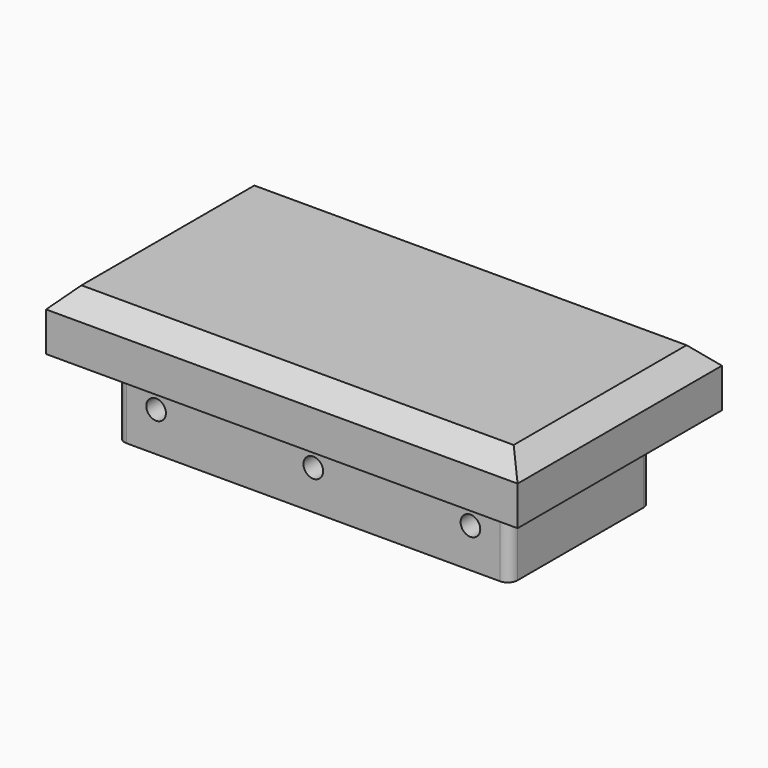
from build123d import *

# Parameters (mm, degrees)
F0_W     = 152.4
F0_H     = 82.55
F1_DEPTH = 19.05
F2_SIZE  = 6.35
F3_W     = 127
F3_H     = 57.15
F4_DEPTH = 25.4
F5_R     = 3.175
F6_DEPTH = 69.851
F7_R     = 3.175


with BuildPart() as f1:
    # F0 (on Top) → F1 (new body)
    with BuildSketch(Plane.XY):
        Rectangle(F0_W, F0_H)
    extrude(amount=F1_DEPTH)

    # F2
    f2_edges = [f1.edges().sort_by_distance(p)[0] for p in [
        (0, 41.275, 19.05),
        (-76.2, 0, 19.05),
        (0, -41.275, 19.05),
        (76.2, 0, 19.05),
    ]]
    chamfer(f2_edges, length=F2_SIZE)

    # F3 (on face) → F4 (join)
    with BuildSketch(Plane(origin=(0, 0, 0), x_dir=(1, 0, 0), z_dir=(0, 0, -1))):
        Rectangle(F3_W, F3_H)
    extrude(amount=F4_DEPTH)

    # F5 (on face) → F6 (cut, through all)
    with BuildSketch(Plane.XZ.offset(28.575)):
        with Locations((-50.8, -12.7)):
            Circle(F5_R)
        with Locations((0, -12.7)):
            Circle(F5_R)
        with Locations((50.8, -12.7)):
            Circle(F5_R)
    extrude(amount=-F6_DEPTH, mode=Mode.SUBTRACT)

    # F7
    f7_edges = [f1.edges().sort_by_distance(p)[0] for p in [
        (-63.5, -28.575, -12.7),
        (63.5, -28.575, -12.7),
        (-63.5, 28.575, -12.7),
        (63.5, 28.575, -12.7),
    ]]
    fillet(f7_edges, radius=F7_R)


solid = f1.part
